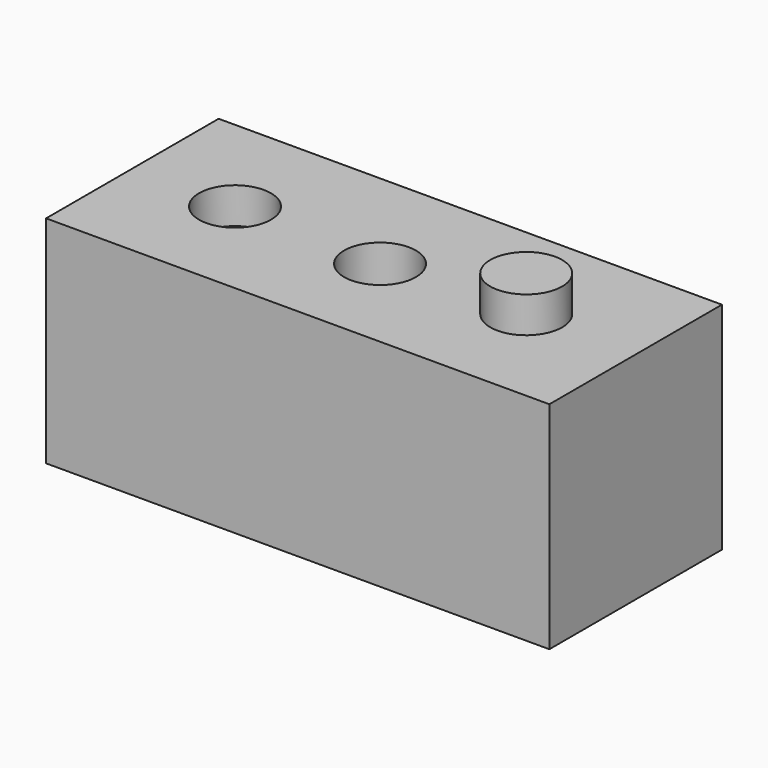
from build123d import *

# Parameters (mm, degrees)
F0_W     = 140
F0_H     = 60
F1_DEPTH = 60
F2_R     = 10
F3_DEPTH = 106.3
F4_R     = 10
F5_DEPTH = 10
F7_DEPTH = 10


with BuildPart() as f1:
    # F0 (on Top) → F1 (new body)
    with BuildSketch(Plane.XY):
        Rectangle(F0_W, F0_H)
    extrude(amount=F1_DEPTH)

    # F2 (on face) → F3 (cut)
    with BuildSketch(Plane.XY.offset(60)):
        with Locations((0, -1.378004)):
            Circle(F2_R)
    extrude(amount=-F3_DEPTH, mode=Mode.SUBTRACT)

    # F4 (on face) → F5 (cut)
    with BuildSketch(Plane.XY.offset(60)):
        with Locations((-41.442424, 0)):
            Circle(F4_R)
    extrude(amount=-F5_DEPTH, mode=Mode.SUBTRACT)

    # F6 (on face) → F7 (join)
    with BuildSketch(Plane.XY.offset(60)):
        with BuildLine():
            ThreePointArc((29.562948, 0), (39.562948, -10), (49.562948, 0))
            ThreePointArc((49.562948, 0), (39.562948, 10), (29.562948, 0))
        make_face()
    extrude(amount=F7_DEPTH)


solid = f1.part
